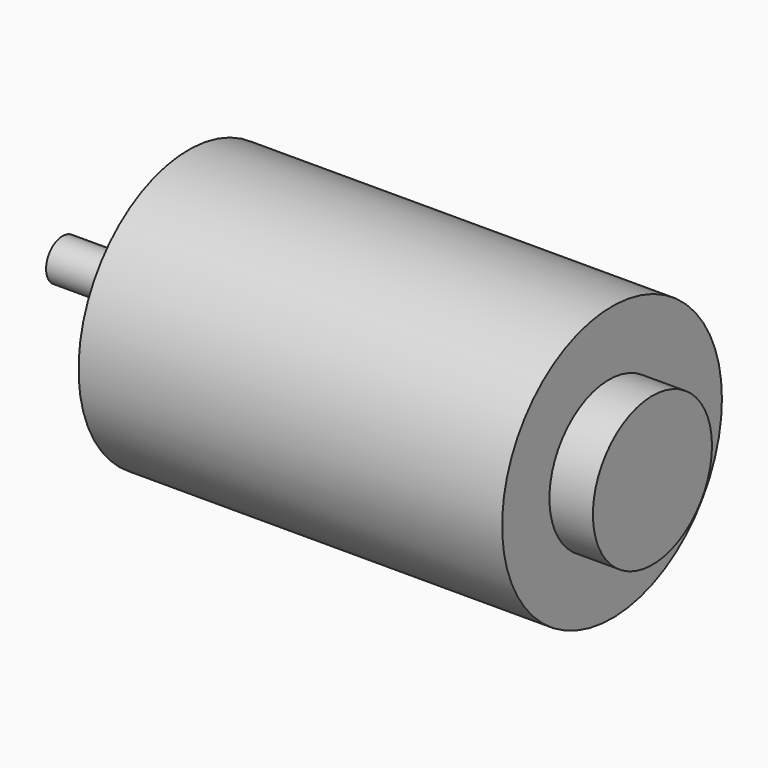
from build123d import *

# Parameters (mm, degrees)
SKETCH_R     = 12
PAD_DEPTH    = 37
SKETCH001_R  = 6.5
PAD001_DEPTH = 3.8
SKETCH002_R  = 3.3
PAD002_DEPTH = 2
SKETCH003_R  = 1.8
PAD003_DEPTH = 9


with BuildPart() as part:
    # Sketch → Pad (new body)
    with BuildSketch(Plane.YZ):
        Circle(SKETCH_R)
    extrude(amount=PAD_DEPTH)

    # Sketch001 (on Face3 of Pad) → Pad001 (join)
    with BuildSketch(Plane.YZ.offset(37)):
        with Locations((-0.336656, 0)):
            Circle(SKETCH001_R)
    extrude(amount=PAD001_DEPTH)

    # Sketch002 (on Face2 of Pad001) → Pad002 (join)
    with BuildSketch(Plane(origin=(0, 0, 0), x_dir=(0, 1, 0), z_dir=(-1, 0, 0))):
        Circle(SKETCH002_R)
    extrude(amount=PAD002_DEPTH)

    # Sketch003 (on Face6 of Pad002) → Pad003 (join)
    with BuildSketch(Plane(origin=(-2, 0, 0), x_dir=(0, 1, 0), z_dir=(-1, 0, 0))):
        Circle(SKETCH003_R)
    extrude(amount=PAD003_DEPTH)


solid = part.part
